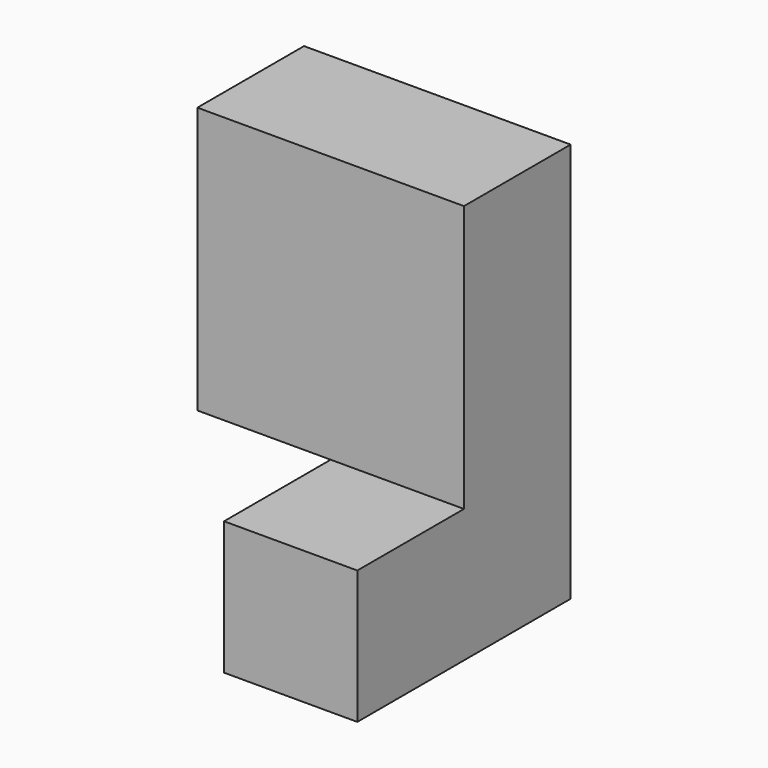
from build123d import *

# Parameters (mm, degrees)
F1_DEPTH = 19.05
F0_W     = 19.05
F0_H     = 19.05
F2_DEPTH = 38.1


with BuildPart() as f1:
    # F0 (on Front) → F1 (new body)
    with BuildSketch(Plane.XZ):
        Polygon((-46.270385, -4.311031), (-27.220385, -4.311031), (-27.220385, 33.788969), (-65.320385, 33.788969), (-65.320385, -4.311031), align=None)
    extrude(amount=F1_DEPTH)

    # F0 (on Front) → F2 (join)
    with BuildSketch(Plane.XZ):
        with Locations((-36.745385, -13.836031)):
            Rectangle(F0_W, F0_H)
    extrude(amount=F2_DEPTH)


solid = f1.part
